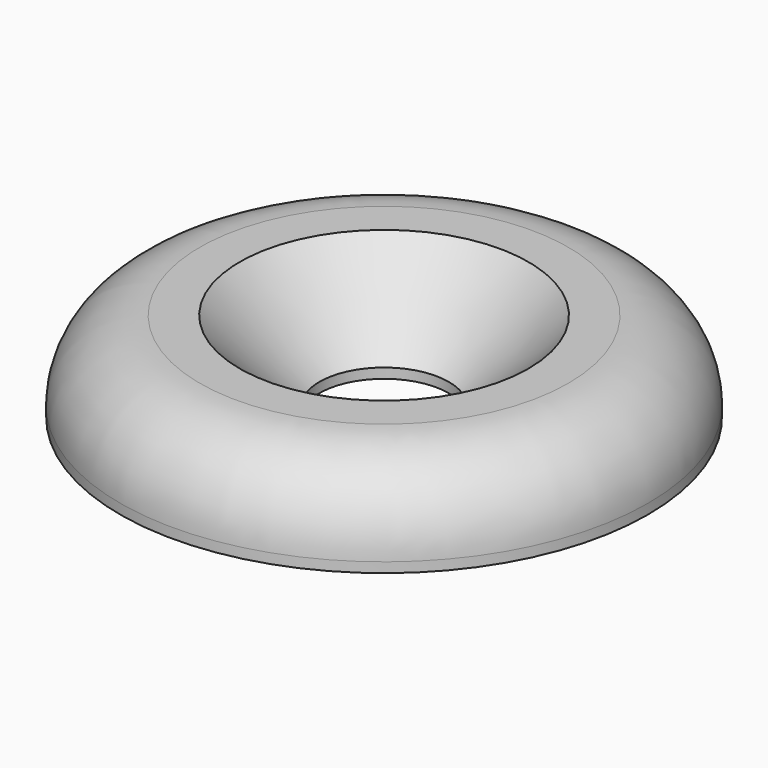
from build123d import *

# Parameters (mm, degrees)
F0_R     = 26.5
F0_R_2   = 6.5
F1_DEPTH = 9
F2_R     = 8
F3_SIZE  = 8


with BuildPart() as f1:
    # F0 (on Top) → F1 (new body)
    with BuildSketch(Plane.XY):
        Circle(F0_R)
        Circle(F0_R_2, mode=Mode.SUBTRACT)
    extrude(amount=F1_DEPTH)

    # F2
    f2_edges = [f1.edges().sort_by_distance(p)[0] for p in [
        (-26.5, 0, 9),
    ]]
    fillet(f2_edges, radius=F2_R)

    # F3
    f3_edges = [f1.edges().sort_by_distance(p)[0] for p in [
        (-6.5, 0, 9),
    ]]
    chamfer(f3_edges, length=F3_SIZE)


solid = f1.part
